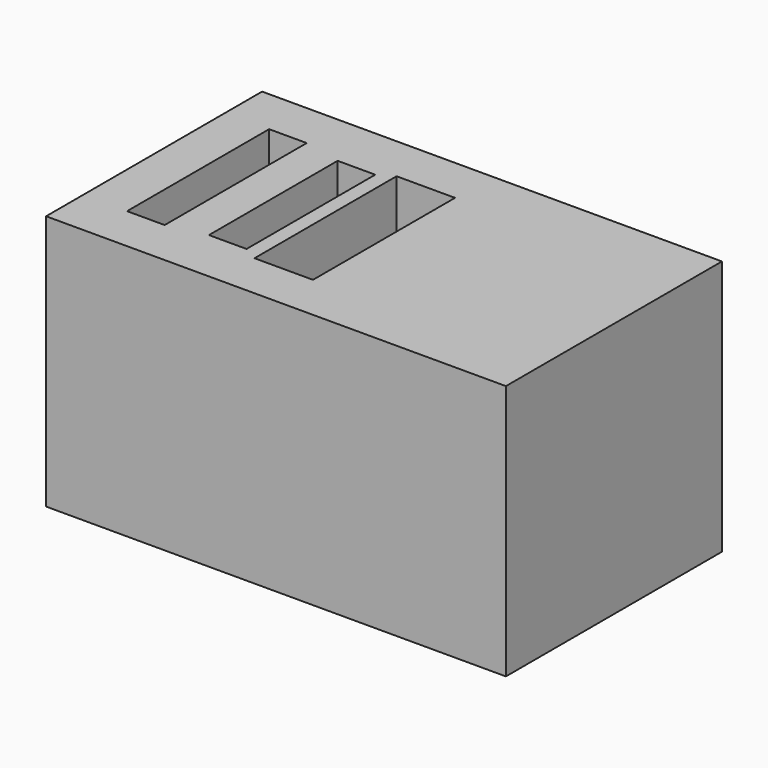
from build123d import *

# Parameters (mm, degrees)
F0_W     = 91.394484
F0_H     = 53.668364
F1_DEPTH = 50.8
F2_W     = 7.473674
F2_H     = 35.292384
F2_W_2   = 7.473675
F2_H_2   = 31.970746
F2_W_3   = 11.625736
F3_DEPTH = 25.4


with BuildPart() as f1:
    # F0 (on Top) → F1 (new body)
    with BuildSketch(Plane.XY):
        Rectangle(F0_W, F0_H)
    extrude(amount=F1_DEPTH)

    # F2 (on face) → F3 (cut)
    with BuildSketch(Plane.XY.offset(50.8)):
        with Locations((-33.216361, 0)):
            Rectangle(F2_W, F2_H)
        with Locations((-18.269001, 0)):
            Rectangle(F2_W_2, F2_H_2)
        with Locations((-5.812868, 0)):
            Rectangle(F2_W_3, F2_H)
    extrude(amount=-F3_DEPTH, mode=Mode.SUBTRACT)


solid = f1.part
